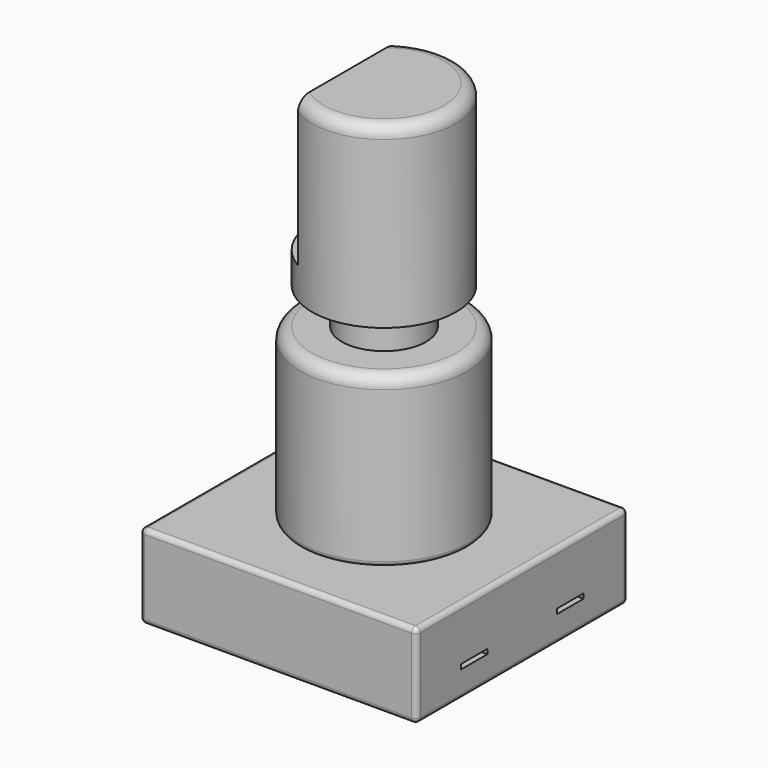
from build123d import *

# Parameters (mm, degrees)
F0_W      = 11.5
F0_H      = 11
F1_DEPTH  = 3.5
F2_R      = 3.5
F2_R_2    = 1.75
F3_DEPTH  = 7
F4_DEPTH  = 8.5
F5_R      = 3
F5_R_2    = 1.75
F6_DEPTH  = 7.4
F8_DEPTH  = 6
F9_R      = 0.2
F9_2_R    = 0.2
F10_R     = 0.5
F10_2_R   = 0.5
F11_DEPTH = 6.1
F12_W     = 1.372
F12_H     = 0.2
F13_DEPTH = 3.48
F14_W     = 1.372
F14_H     = 0.2
F15_DEPTH = 3.98


with BuildPart() as f1:
    # F0 (on Top) → F1 (new body)
    with BuildSketch(Plane.XY):
        Rectangle(F0_W, F0_H)
    extrude(amount=-F1_DEPTH)

    # F9
    f9_edges = [f1.edges().sort_by_distance(p)[0] for p in [
        (0, -5.5, 0),
        (-5.75, 0, 0),
        (0, 5.5, 0),
        (5.75, 0, 0),
        (5.75, -5.5, -1.75),
        (-5.75, -5.5, -1.75),
        (0, -5.5, -3.5),
        (-5.75, 0, -3.5),
        (5.75, 0, -3.5),
        (5.75, 5.5, -1.75),
        (-5.75, 5.5, -1.75),
        (0, 5.5, -3.5),
    ]]
    fillet(f9_edges, radius=F9_R)

    # F12 (on face) → F13 (cut)
    with BuildSketch(Plane(origin=(-5.75, 0, 0), x_dir=(0, -1, 0), z_dir=(-1, 0, 0))):
        with Locations((-2.5, -2.3)):
            Rectangle(F12_W, F12_H)
        with Locations((0, -2.3)):
            Rectangle(F12_W, F12_H)
        with Locations((2.5, -2.3)):
            Rectangle(F12_W, F12_H)
    extrude(amount=-F13_DEPTH, mode=Mode.SUBTRACT)

    # F14 (on face) → F15 (cut)
    with BuildSketch(Plane.YZ.offset(5.75)):
        with Locations((-2.5, -2.3)):
            Rectangle(F14_W, F14_H)
        with Locations((2.5, -2.3)):
            Rectangle(F14_W, F14_H)
    extrude(amount=-F15_DEPTH, mode=Mode.SUBTRACT)


with BuildPart() as f3:
    # F2 (on face) → F3 (new body)
    with BuildSketch(Plane.XY):
        Circle(F2_R)
        Circle(F2_R_2, mode=Mode.SUBTRACT)
    extrude(amount=F3_DEPTH)

    # F9#2
    f9_2_edges = [f3.edges().sort_by_distance(p)[0] for p in [
        (-3.5, 0, 0),
    ]]
    fillet(f9_2_edges, radius=F9_2_R)

    # F10#2
    f10_2_edges = [f3.edges().sort_by_distance(p)[0] for p in [
        (-3.5, 0, 7),
    ]]
    fillet(f10_2_edges, radius=F10_2_R)


with BuildPart() as f4:
    # F2 (on face) → F4 (new body)
    with BuildSketch(Plane.XY):
        Circle(F2_R_2)
    extrude(amount=F4_DEPTH)

    # F5 (on face) → F6 (join)
    with BuildSketch(Plane.XY.offset(8.5)):
        Circle(F5_R)
        Circle(F5_R_2, mode=Mode.SUBTRACT)
        Circle(F5_R_2)
    extrude(amount=F6_DEPTH)

    # F7 (on face) → F8 (cut)
    with BuildSketch(Plane.XY.offset(15.9)):
        with BuildLine():
            Line((-1.5, -2.5980762114), (-1.5, 2.5980762114))
            ThreePointArc((-1.5, 2.5980762114), (-3, 0), (-1.5, -2.5980762114))
        make_face()
    extrude(amount=-F8_DEPTH, mode=Mode.SUBTRACT)

    # F10
    f10_edges = [f4.edges().sort_by_distance(p)[0] for p in [
        (1.5, -2.598076, 15.9),
        (1.5, 2.598076, 15.9),
    ]]
    fillet(f10_edges, radius=F10_R)

    # F7 (on face) → F11 (cut)
    with BuildSketch(Plane.XY.offset(15.9)):
        with BuildLine():
            Line((-1.5, -2.5980762114), (-1.5, 2.5980762114))
            ThreePointArc((-1.5, 2.5980762114), (-3, 0), (-1.5, -2.5980762114))
        make_face()
    extrude(amount=-F11_DEPTH, mode=Mode.SUBTRACT)


solid = Compound([f1.part, f3.part, f4.part])
